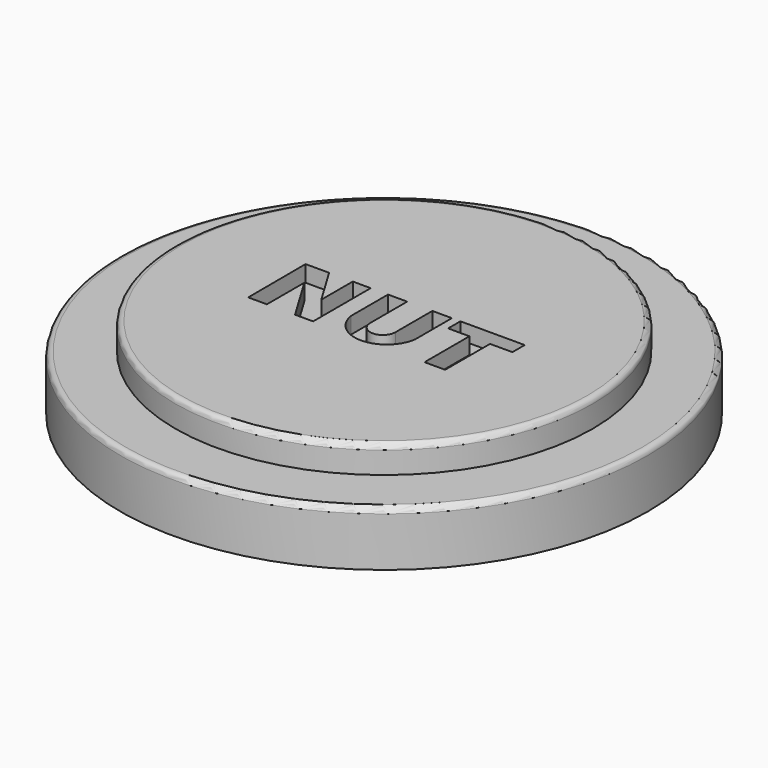
from build123d import *

# Parameters (mm, degrees)
F0_R     = 48.167809
F1_DEPTH = 10
F2_R     = 38.085583
F3_DEPTH = 5
F5_DEPTH = 3
F6_R     = 1


with BuildPart() as f1:
    # F0 (on Top) → F1 (new body)
    with BuildSketch(Plane.XY):
        with Locations((38.1, -38.1)):
            Circle(F0_R)
    extrude(amount=F1_DEPTH)

    # F2 (on face) → F3 (join)
    with BuildSketch(Plane.XY.offset(10)):
        with Locations((38.1, -38.1)):
            Circle(F2_R)
    extrude(amount=F3_DEPTH)

    # F4 (on face) → F5 (cut)
    with BuildSketch(Plane.XY.offset(15)):
        Polygon((22.775168, -31.485546), (18.479863, -31.485546), (18.522732, -44.620931), (21.934504, -44.620931), (21.934504, -36.083298), (27.067889, -44.620931), (30.365812, -44.620931), (30.365812, -31.485546), (27.093198, -31.485546), (27.093198, -38.667116), align=None)
        with BuildLine():
            Line((37.025582, -31.485546), (33.525705, -31.485546))
            Line((33.525705, -31.485546), (33.525705, -39.915241))
            ThreePointArc((33.525705, -39.915241), (39.355047, -44.941114), (45.184389, -39.915241))
            Line((45.184389, -39.915241), (45.184389, -31.485546))
            Line((45.184389, -31.485546), (41.616332, -31.485546))
            Line((41.616332, -31.485546), (41.616332, -39.915241))
            ThreePointArc((41.616332, -39.915241), (39.320957, -42.210616), (37.025582, -39.915241))
            Line((37.025582, -39.915241), (37.025582, -31.485546))
        make_face()
        Polygon((58.469679, -31.485546), (46.738543, -31.485546), (46.738543, -34.295145), (50.627492, -34.295145), (50.627492, -44.531766), (54.387886, -44.531766), (54.387886, -34.295145), (58.469679, -34.295145), align=None)
    extrude(amount=-F5_DEPTH, mode=Mode.SUBTRACT)

    # F6
    f6_edges = [f1.edges().sort_by_distance(p)[0] for p in [
        (-10.067809, -38.1, 10),
        (0.014417, -38.1, 15),
    ]]
    fillet(f6_edges, radius=F6_R)


solid = f1.part
